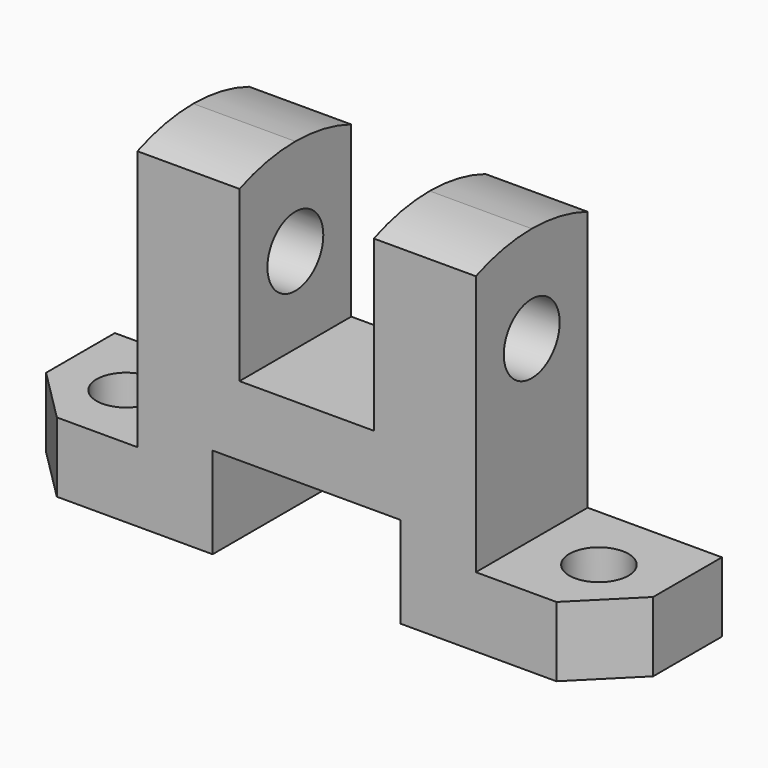
from build123d import *

# Parameters (mm, degrees)
F0_W     = 10
F0_H     = 13
F1_DEPTH = 13
F2_R     = 5.5
F3_DEPTH = 13.001
F4_R     = 5.5
F5_DEPTH = 13.001
F6_R     = 6.5
F7_DEPTH = 88.001
F8_DEPTH = 88.001


with BuildPart() as f1:
    # F0 (on Front) → F1 (new body, symmetric)
    with BuildSketch(Plane.XZ):
        with Locations((5, 6.5)):
            Rectangle(F0_W, F0_H)
        Polygon((10, 13), (10, 0), (39, 0), (39, 17), (74, 17), (74, 0), (103, 0), (103, 13), (88, 13), (88, 64), (69, 64), (69, 30), (44, 30), (44, 64), (25, 64), (25, 13), align=None)
        with Locations((108, 6.5)):
            Rectangle(F0_W, F0_H)
        Polygon((10, 13), (10, 0), (39, 0), (39, 17), (74, 17), (74, 0), (103, 0), (103, 13), (88, 13), (88, 64), (69, 64), (69, 30), (44, 30), (44, 64), (25, 64), (25, 13), align=None)
    extrude(amount=F1_DEPTH, both=True)

    # F2 (on face) → F3 (cut, through all)
    with BuildSketch(Plane.XY.offset(13)):
        Polygon((0, -13), (10, -13), (0, -3), align=None)
        with Locations((12.5, 0)):
            Circle(F2_R)
    extrude(amount=-F3_DEPTH, mode=Mode.SUBTRACT)

    # F4 (on face) → F5 (cut, through all)
    with BuildSketch(Plane.XY.offset(13)):
        with Locations((100.5, 0)):
            Circle(F4_R)
        Polygon((113, -3), (103, -13), (113, -13), align=None)
    extrude(amount=-F5_DEPTH, mode=Mode.SUBTRACT)

    # F6 (on face) → F7 (cut, through all)
    with BuildSketch(Plane.YZ.offset(88)):
        with Locations((0, 46)):
            Circle(F6_R)
        with Locations((0, 46)):
            Circle(F6_R)
    extrude(amount=-F7_DEPTH, mode=Mode.SUBTRACT)

    # F6 (on face) → F8 (cut, through all)
    with BuildSketch(Plane.YZ.offset(88)):
        with BuildLine():
            Line((13, 64), (0, 64))
            ThreePointArc((0, 64), (6.619465, 63.368338), (13, 61.496154))
            Line((13, 61.496154), (13, 64))
        make_face()
        with BuildLine():
            ThreePointArc((-13, 61.496154), (-6.619465, 63.368338), (0, 64))
            Line((0, 64), (-13, 64))
            Line((-13, 64), (-13, 61.496154))
        make_face()
    extrude(amount=-F8_DEPTH, mode=Mode.SUBTRACT)


solid = f1.part
